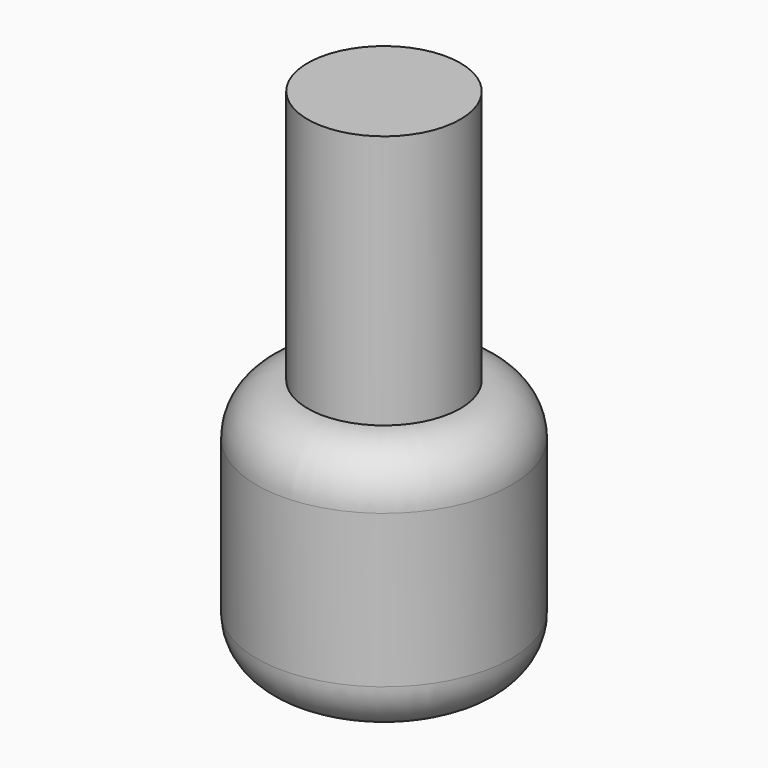
from build123d import *

# Parameters (mm, degrees)
F0_R      = 12.7
F1_DEPTH  = 25.4
F2_R      = 5.08
F1_FACE_R = 7.62
F3_DEPTH  = 25.4


with BuildPart() as f1:
    # F0 (on Top) → F1 (new body)
    with BuildSketch(Plane.XY):
        Circle(F0_R)
    extrude(amount=F1_DEPTH)

    # F2
    f2_edges = [f1.edges().sort_by_distance(p)[0] for p in [
        (-12.7, 0, 25.4),
        (-12.7, 0, 0),
    ]]
    fillet(f2_edges, radius=F2_R)

    # F1_face (on face) → F3 (join)
    with BuildSketch(Plane.XY.offset(25.4)):
        Circle(F1_FACE_R)
    extrude(amount=F3_DEPTH)


solid = f1.part
